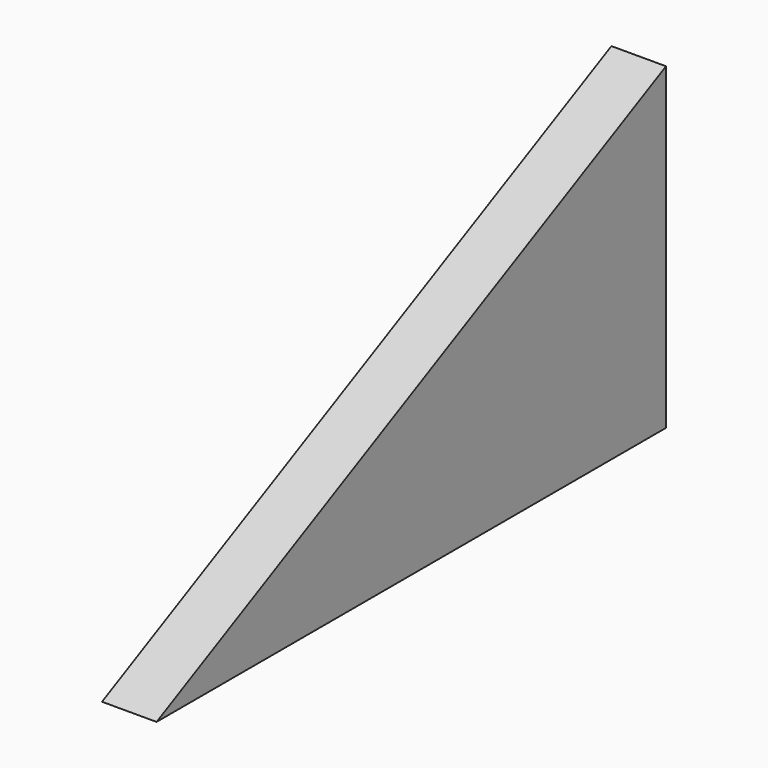
from build123d import *

# Parameters (mm, degrees)
F1_DEPTH = 3


with BuildPart() as f1:
    # F0 (on Right) → F1 (new body)
    with BuildSketch(Plane.YZ):
        with BuildLine():
            add(Edge.make_bspline(
                [(17.5, 0), (5.833333, -5.833333), (-5.833333, -11.666667), (-17.5, -17.5)],
                knots=[0, 0, 0, 0, 39.13119, 39.13119, 39.13119, 39.13119], degree=3))
            Line((-17.5, -17.5), (17.5, -17.5))
            Line((17.5, -17.5), (17.5, 0))
        make_face()
    extrude(amount=F1_DEPTH)


solid = f1.part
